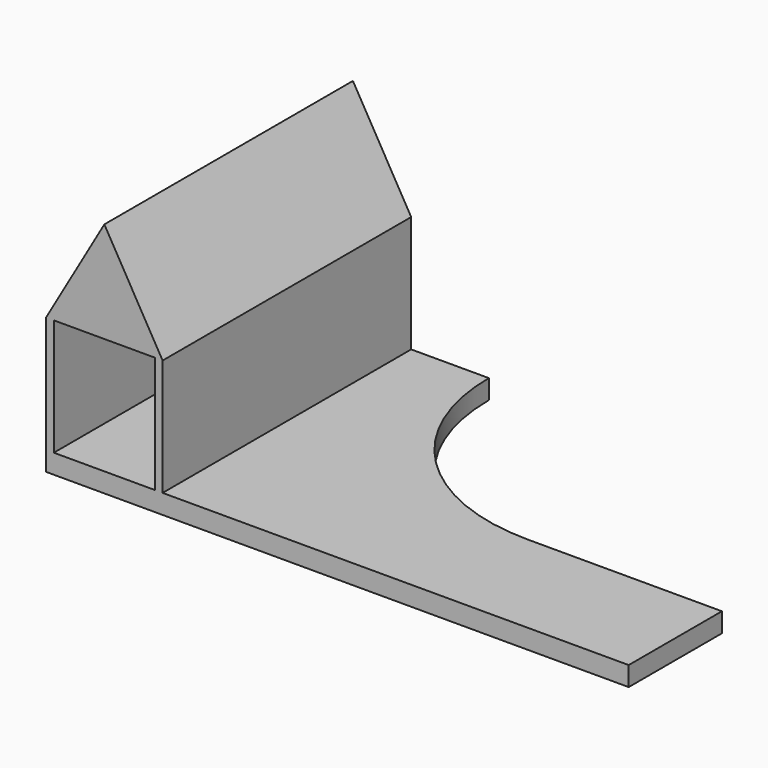
from build123d import *

# Parameters (mm, degrees)
F0_W     = 10
F0_H     = 20
F1_DEPTH = 5
F3_DEPTH = 30
F5_DEPTH = 80


with BuildPart() as f1:
    # F0 (on Top) → F1 (new body)
    with BuildSketch(Plane.XY):
        with BuildLine():
            Line((150, -25), (100, -25))
            ThreePointArc((100, -25), (64.644661, -10.355339), (50, 25))
            Line((50, 25), (0, 25))
            Line((0, 25), (0, -55))
            Line((0, -55), (150, -55))
            Line((150, -55), (150, -25))
        make_face()
        with Locations((15, 10)):
            Rectangle(F0_W, F0_H, mode=Mode.SUBTRACT)
    extrude(amount=F1_DEPTH)

    # F2 (on face) → F3 (join)
    with BuildSketch(Plane.XY.offset(5)):
        Polygon((30, 25), (0, 25), (0, -55), (2, -55), (2, 23), (28, 23), (28, -55), (30, -55), align=None)
    extrude(amount=F3_DEPTH)

    # F4 (on face) → F5 (join, through all)
    with BuildSketch(Plane(origin=(0, 25, 0), x_dir=(-1, 0, 0), z_dir=(0, 1, 0))):
        Polygon((-15, 60.980762), (-30, 35), (0, 35), align=None)
    extrude(amount=-F5_DEPTH)


solid = f1.part
